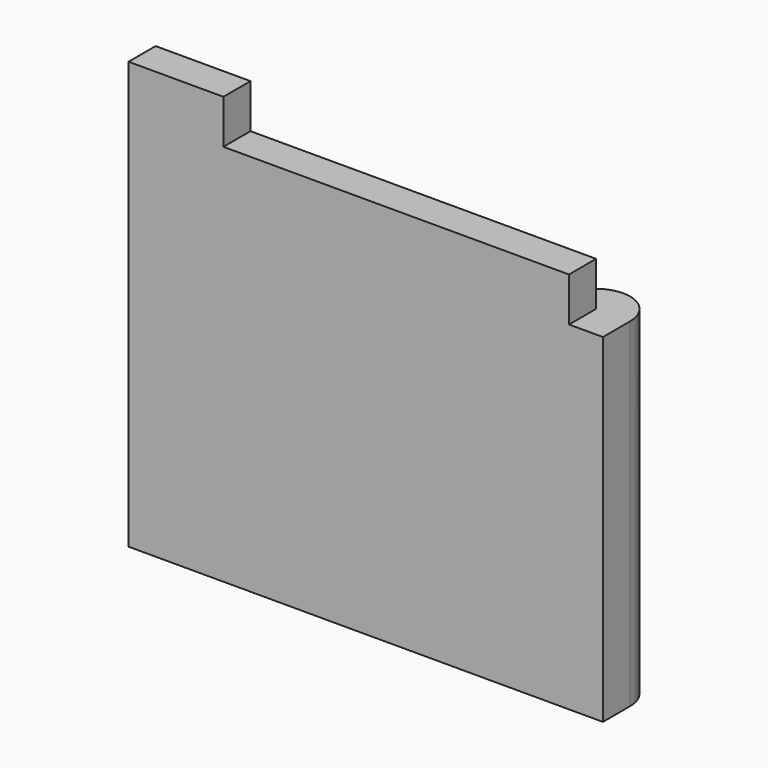
from build123d import *

# Parameters (mm, degrees)
F1_DEPTH = 50
F2_W     = 70
F2_H     = 5
F3_DEPTH = 6.5
F5_W     = 5
F5_H     = 6.5
F6_DEPTH = 5
F4_W     = 14
F4_H     = 5
F7_DEPTH = 6.5


with BuildPart() as f1:
    # F0 (on Top) → F1 (new body)
    with BuildSketch(Plane.XY):
        with BuildLine():
            Line((-32.032276, 5), (-32.032276, 0))
            Line((-32.032276, 0), (37.967724, 0))
            Line((37.967724, 0), (37.967724, 5))
            ThreePointArc((37.967724, 5), (32.967724, 10), (27.967724, 5))
            ThreePointArc((27.967724, 5), (22.967724, 10), (17.967724, 5))
            ThreePointArc((17.967724, 5), (12.967724, 10), (7.967724, 5))
            ThreePointArc((7.967724, 5), (2.967724, 10), (-2.032276, 5))
            ThreePointArc((-2.032276, 5), (-7.032276, 10), (-12.032276, 5))
            ThreePointArc((-12.032276, 5), (-17.032276, 10), (-22.032276, 5))
            Line((-22.032276, 5), (-32.032276, 5))
        make_face()
    extrude(amount=F1_DEPTH)

    # F2 (on face) → F3 (join)
    with BuildSketch(Plane.XY.offset(50)):
        with Locations((2.967724, 2.5)):
            Rectangle(F2_W, F2_H)
    extrude(amount=F3_DEPTH)

    # F5 (on face) → F6 (cut)
    with BuildSketch(Plane.YZ.offset(37.967724)):
        with Locations((2.5, 53.25)):
            Rectangle(F5_W, F5_H)
    extrude(amount=-F6_DEPTH, mode=Mode.SUBTRACT)

    # F4 (on face) → F7 (join)
    with BuildSketch(Plane.XY.offset(56.5)):
        with Locations((-25.032276, 2.5)):
            Rectangle(F4_W, F4_H)
    extrude(amount=F7_DEPTH)


solid = f1.part
